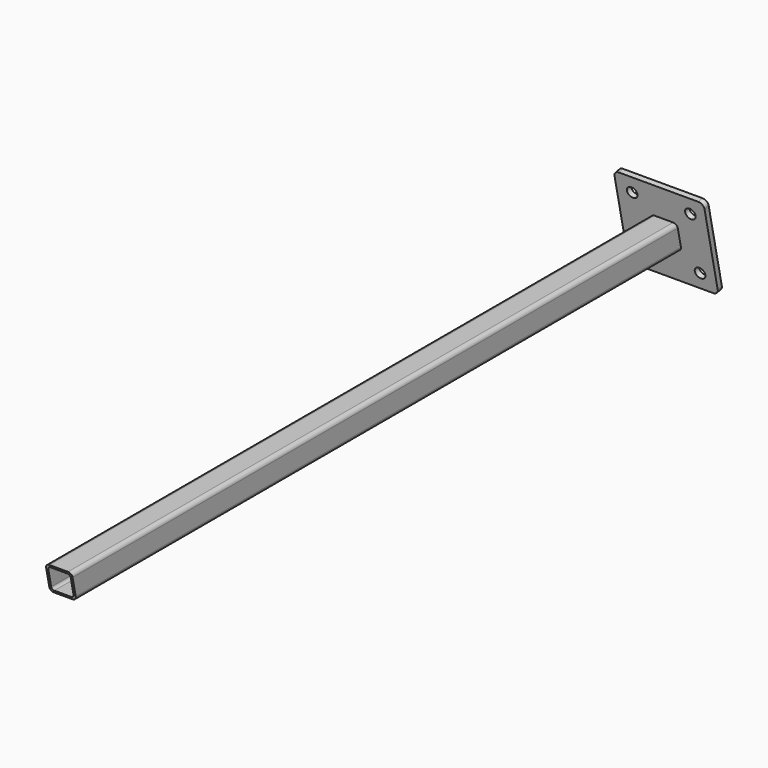
from build123d import *

# Parameters (mm, degrees)
F0_W     = 31.75
F0_H     = 31.75
F0_W_2   = 26.924
F0_H_2   = 26.924
F1_DEPTH = 457.2
F2_R     = 4.7752
F3_R     = 3.175
F5_DEPTH = 31.751
F6_R     = 6.35
F7_DEPTH = 6.35


with BuildPart() as f1:
    # F0 (on Front) → F1 (new body, symmetric)
    with BuildSketch(Plane.XZ):
        Rectangle(F0_W, F0_H)
        Rectangle(F0_W_2, F0_H_2, mode=Mode.SUBTRACT)
    extrude(amount=F1_DEPTH, both=True)

    # F2
    f2_edges = [f1.edges().sort_by_distance(p)[0] for p in [
        (15.875, 0, -15.875),
        (-15.875, 0, -15.875),
        (-15.875, 0, 15.875),
        (15.875, 0, 15.875),
    ]]
    fillet(f2_edges, radius=F2_R)

    # F3
    f3_edges = [f1.edges().sort_by_distance(p)[0] for p in [
        (-13.462, 0, 13.462),
        (13.462, 0, 13.462),
        (-13.462, 0, -13.462),
        (13.462, 0, -13.462),
    ]]
    fillet(f3_edges, radius=F3_R)

    # F4 (on face) → F5 (cut, through all)
    with BuildSketch(Plane.YZ.offset(15.875)):
        Polygon((-450.451329167, -15.875), (-457.2, 15.875), (-457.2, -15.875), align=None)
        Polygon((457.2, 15.875), (450.451329167, 15.875), (457.2, -15.875), align=None)
    extrude(amount=-F5_DEPTH, mode=Mode.SUBTRACT)

    # F6 (on face) → F7 (join)
    with BuildSketch(Plane(origin=(0, 434.2080195127, 92.2937636772), x_dir=(-1, 0, 0), z_dir=(0, 0.9781476007, 0.2079116908))):
        with BuildLine():
            Line((-47.625, -148.33066126), (47.625, -148.33066126))
            ThreePointArc((47.625, -148.33066126), (52.1151280605, -146.4707893206), (53.975, -141.98066126))
            Line((53.975, -141.98066126), (53.975, -46.73066126))
            ThreePointArc((53.975, -46.73066126), (52.1151280605, -42.2405331995), (47.625, -40.38066126))
            Line((47.625, -40.38066126), (-47.625, -40.38066126))
            ThreePointArc((-47.625, -40.38066126), (-52.1151280605, -42.2405331995), (-53.975, -46.73066126))
            Line((-53.975, -46.73066126), (-53.975, -141.98066126))
            ThreePointArc((-53.975, -141.98066126), (-52.1151280605, -146.4707893206), (-47.625, -148.33066126))
        make_face()
        with Locations((-34.925, -129.28066126)):
            Circle(F6_R, mode=Mode.SUBTRACT)
        with Locations((34.925, -129.28066126)):
            Circle(F6_R, mode=Mode.SUBTRACT)
        with Locations((-34.925, -59.43066126)):
            Circle(F6_R, mode=Mode.SUBTRACT)
        with Locations((34.925, -59.43066126)):
            Circle(F6_R, mode=Mode.SUBTRACT)
    extrude(amount=F7_DEPTH)


solid = f1.part
